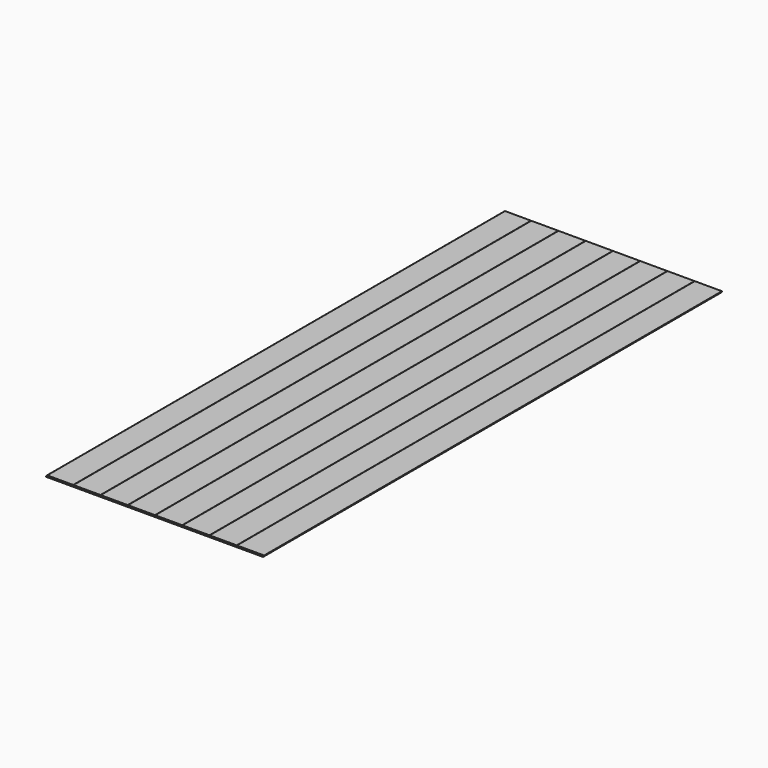
from build123d import *

# Parameters (mm, degrees)
F0_W     = 1219.2
F0_H     = 3654.425
F1_DEPTH = 4.7625
F2_W     = 6.35
F2_H     = 4.7625
F3_DEPTH = 3654.426
F4_W     = 1.5875
F4_H     = 1.5875
F5_DEPTH = 3654.426
F6_W     = 454.025
F6_H     = 9.525
F7_DEPTH = 1219.201


with BuildPart() as f1:
    # F0 (on Top) → F1 (new body, symmetric)
    with BuildSketch(Plane.XY):
        with Locations((0, 1303.43302)):
            Rectangle(F0_W, F0_H)
    extrude(amount=F1_DEPTH, both=True)

    # F2 (on face) → F3 (cut, through all)
    with BuildSketch(Plane.XZ.offset(523.77948)):
        with Locations((606.425, -2.38125)):
            Rectangle(F2_W, F2_H)
        with Locations((-606.425, 2.38125)):
            Rectangle(F2_W, F2_H)
    extrude(amount=-F3_DEPTH, mode=Mode.SUBTRACT)

    # F4 (on face) → F5 (cut, through all)
    with BuildSketch(Plane.XZ.offset(523.77948)):
        with Locations((-457.2, 3.96875)):
            Rectangle(F4_W, F4_H)
        with Locations((-304.8, 3.96875)):
            Rectangle(F4_W, F4_H)
        with Locations((-152.4, 3.96875)):
            Rectangle(F4_W, F4_H)
        with Locations((0, 3.96875)):
            Rectangle(F4_W, F4_H)
        with Locations((152.4, 3.96875)):
            Rectangle(F4_W, F4_H)
        with Locations((304.8, 3.96875)):
            Rectangle(F4_W, F4_H)
        with Locations((457.2, 3.96875)):
            Rectangle(F4_W, F4_H)
    extrude(amount=-F5_DEPTH, mode=Mode.SUBTRACT)

    # F6 (on face) → F7 (cut, through all)
    with BuildSketch(Plane(origin=(-609.6, 0, 0), x_dir=(0, -1, 0), z_dir=(-1, 0, 0))):
        with Locations((-2903.63302, 0)):
            Rectangle(F6_W, F6_H)
    extrude(amount=-F7_DEPTH, mode=Mode.SUBTRACT)


solid = f1.part
